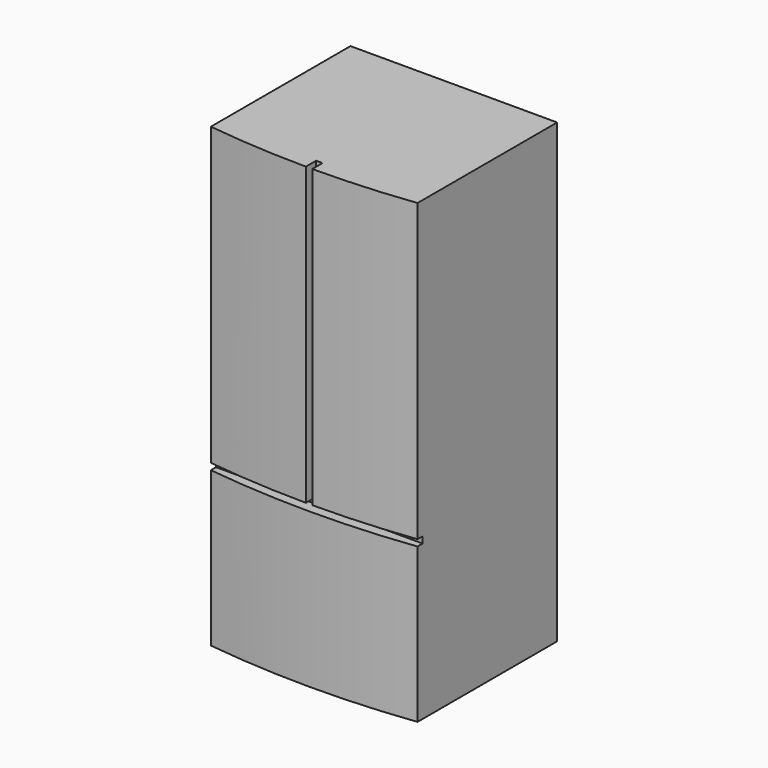
from build123d import *

# Parameters (mm, degrees)
F1_DEPTH = 1803.4
F4_DEPTH = 50.8
F3_W     = 25.4
F3_H     = 2540
F5_DEPTH = 50.8


with BuildPart() as f1:
    # F0 (on Top) → F1 (new body)
    with BuildSketch(Plane.XY):
        with BuildLine():
            Line((407.9875, 714.375), (-407.9875, 714.375))
            Line((-407.9875, 714.375), (-407.9875, 25.4))
            ThreePointArc((-407.9875, 25.4), (0, 0), (407.9875, 25.4))
            Line((407.9875, 25.4), (407.9875, 714.375))
        make_face()
    extrude(amount=F1_DEPTH)

    # F2 (on Front) → F4 (cut)
    with BuildSketch(Plane.XZ):
        Polygon((-635, 635), (-635, 609.6), (0, 609.6), (635, 609.6), (635, 635), align=None)
    extrude(amount=-F4_DEPTH, mode=Mode.SUBTRACT)

    # F3 (on Front) → F5 (cut)
    with BuildSketch(Plane.XZ):
        with Locations((0, 1879.6)):
            Rectangle(F3_W, F3_H)
    extrude(amount=-F5_DEPTH, mode=Mode.SUBTRACT)


solid = f1.part
